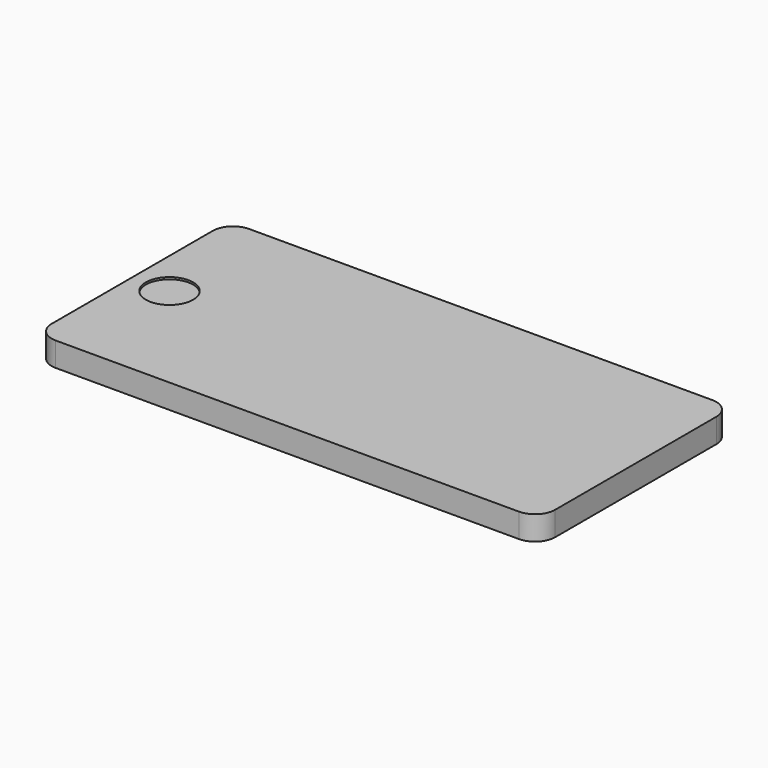
from build123d import *

# Parameters (mm, degrees)
F0_W     = 125
F0_H     = 60
F1_DEPTH = 6
F2_R     = 5
F3_R     = 5
F4_R     = 1.925177
F5_DEPTH = 0.5
F6_R     = 1.925177
F7_DEPTH = 0.5
F8_R     = 5.863053
F9_DEPTH = 0.5


with BuildPart() as f1:
    # F0 (on Top) → F1 (new body)
    with BuildSketch(Plane.XY):
        Rectangle(F0_W, F0_H)
    extrude(amount=F1_DEPTH)

    # F2
    f2_edges = [f1.edges().sort_by_distance(p)[0] for p in [
        (-62.5, 30, 3),
        (62.5, 30, 3),
        (62.5, -30, 3),
    ]]
    fillet(f2_edges, radius=F2_R)

    # F3
    f3_edges = [f1.edges().sort_by_distance(p)[0] for p in [
        (-62.5, -30, 3),
    ]]
    fillet(f3_edges, radius=F3_R)

    # F4 (on face) → F5 (join)
    with BuildSketch(Plane(origin=(0, 30, 0), x_dir=(-1, 0, 0), z_dir=(0, 1, 0))):
        with Locations((-32.237682, 2.95109)):
            Circle(F4_R)
    extrude(amount=F5_DEPTH)

    # F6 (on face) → F7 (join)
    with BuildSketch(Plane(origin=(0, 30, 0), x_dir=(-1, 0, 0), z_dir=(0, 1, 0))):
        with Locations((-24.762407, 3.057879)):
            Circle(F6_R)
    extrude(amount=F7_DEPTH)

    # F8 (on face) → F9 (cut)
    with BuildSketch(Plane.XY.offset(6)):
        with Locations((-53.260919, 0)):
            Circle(F8_R)
    extrude(amount=-F9_DEPTH, mode=Mode.SUBTRACT)


solid = f1.part
